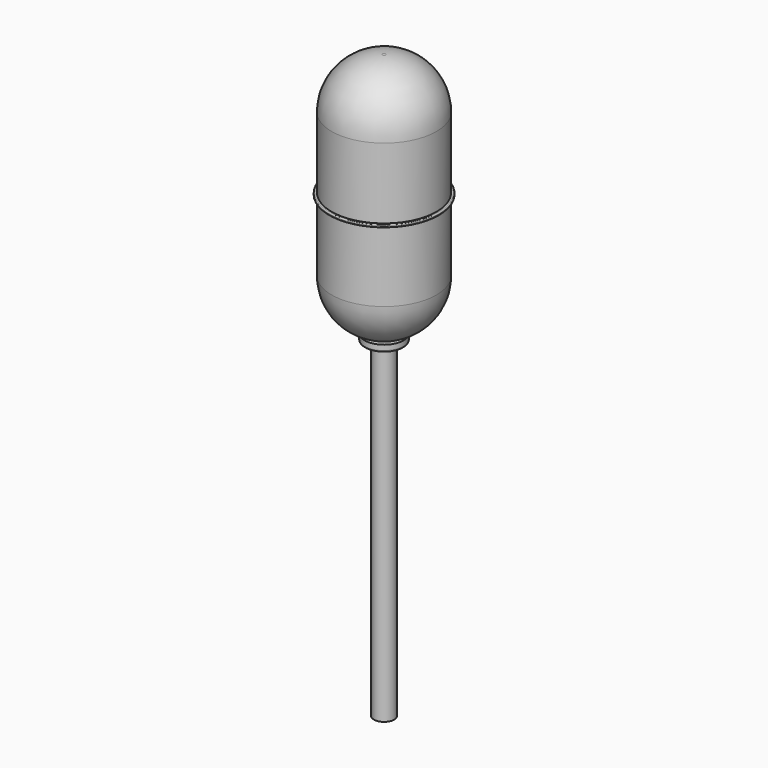
from build123d import *

# Parameters (mm, degrees)
F0_R      = 31
F1_DEPTH  = 145
F2_R      = 30
F3_R      = 30
F5_R      = 32.5
F6_DEPTH  = 0.75
F7_R      = 0.5
F9_R      = 11.5
F10_DEPTH = 4
F11_R     = 1
F12_R     = 6
F13_DEPTH = 195
F14_R     = 4.5
F15_DEPTH = 300


with BuildPart() as f1:
    # F0 (on Top) → F1 (new body)
    with BuildSketch(Plane.XY):
        Circle(F0_R)
    extrude(amount=-F1_DEPTH)

    # F2
    f2_edges = [f1.edges().sort_by_distance(p)[0] for p in [
        (-31, 0, 0),
    ]]
    fillet(f2_edges, radius=F2_R)

    # F3
    f3_edges = [f1.edges().sort_by_distance(p)[0] for p in [
        (-31, 0, -145),
    ]]
    fillet(f3_edges, radius=F3_R)

    # F5 (on offset) → F6 (join, symmetric)
    with BuildSketch(Plane.XY.offset(-72.5)):
        Circle(F5_R)
    extrude(amount=F6_DEPTH, both=True)

    # F7
    f7_edges = [f1.edges().sort_by_distance(p)[0] for p in [
        (-32.5, 0, -71.75),
        (-32.5, 0, -73.25),
    ]]
    fillet(f7_edges, radius=F7_R)

    # F9 (on offset) → F10 (join)
    with BuildSketch(Plane.XY.offset(-145)):
        Circle(F9_R)
    extrude(amount=-F10_DEPTH)

    # F11
    f11_edges = [f1.edges().sort_by_distance(p)[0] for p in [
        (-11.5, 0, -149),
    ]]
    fillet(f11_edges, radius=F11_R)

    # F12 (on face) → F13 (join)
    with BuildSketch(Plane(origin=(0, 0, -149), x_dir=(1, 0, 0), z_dir=(0, 0, -1))):
        Circle(F12_R)
    extrude(amount=F13_DEPTH)

    # F14 (on face) → F15 (cut)
    with BuildSketch(Plane(origin=(0, 0, -344), x_dir=(1, 0, 0), z_dir=(0, 0, -1))):
        Circle(F14_R)
    extrude(amount=-F15_DEPTH, mode=Mode.SUBTRACT)


solid = f1.part
